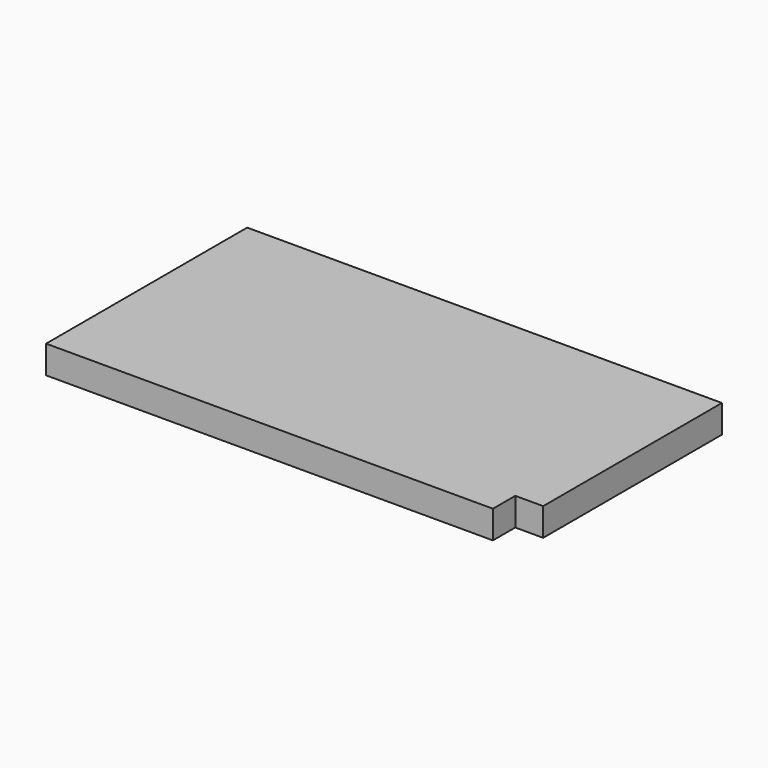
from build123d import *

# Parameters (mm, degrees)
SKETCH_W     = 170
SKETCH_H     = 90
PAD_DEPTH    = 10
SKETCH001_W  = 10
SKETCH001_H  = 10
POCKET_DEPTH = 10.001


with BuildPart() as part:
    # Sketch → Pad (new body)
    with BuildSketch(Plane.XY):
        with Locations((-85, 45)):
            Rectangle(SKETCH_W, SKETCH_H)
    extrude(amount=PAD_DEPTH)

    # Sketch001 (on Face6 of Pad) → Pocket (cut, through all)
    with BuildSketch(Plane.XY.offset(10)):
        with Locations((-5, 5)):
            Rectangle(SKETCH001_W, SKETCH001_H)
    extrude(amount=-POCKET_DEPTH, mode=Mode.SUBTRACT)


solid = part.part
